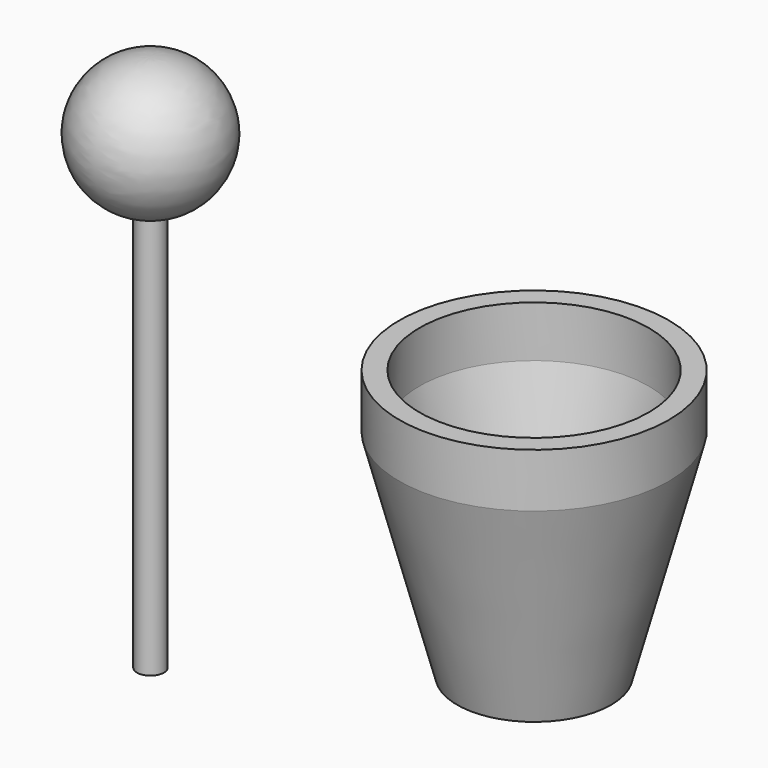
from build123d import *

# Parameters (mm, degrees)
F0_R     = 2.54
F1_DEPTH = 76.2
F4_R     = 25.4
F5_DEPTH = 50.8
F6_SIZE2 = 10.889455
F6_SIZE  = 40.64
F7_T     = -3.81


with BuildPart() as f1:
    # F0 (on Top) → F1 (new body)
    with BuildSketch(Plane.XY):
        Circle(F0_R)
    extrude(amount=F1_DEPTH)

    # F2 (on Right) → F3 (revolve)
    with BuildSketch(Plane.YZ):
        with BuildLine():
            ThreePointArc((0, 101.296377), (-13.079846, 88.596377), (0, 75.896377))
            Line((0, 75.896377), (0, 101.296377))
        make_face()
    revolve(axis=Axis((0, 0, 88.596377), (0, 0, 1)))


with BuildPart() as f5:
    # F4 (on Top) → F5 (new body)
    with BuildSketch(Plane.XY):
        with Locations((45.809146, 33.093743)):
            Circle(F4_R)
    extrude(amount=F5_DEPTH)

    # F6
    f6_edges = [f5.edges().sort_by_distance(p)[0] for p in [
        (20.409146, 33.093743, 0),
    ]]
    chamfer(f6_edges, length=F6_SIZE, length2=F6_SIZE2)

    # F7
    f7_openings = [f5.faces().sort_by_distance(p)[0] for p in [
        (45.809146, 33.093743, 50.8),
    ]]
    offset(amount=F7_T, openings=f7_openings)


solid = Compound([f1.part, f5.part])
